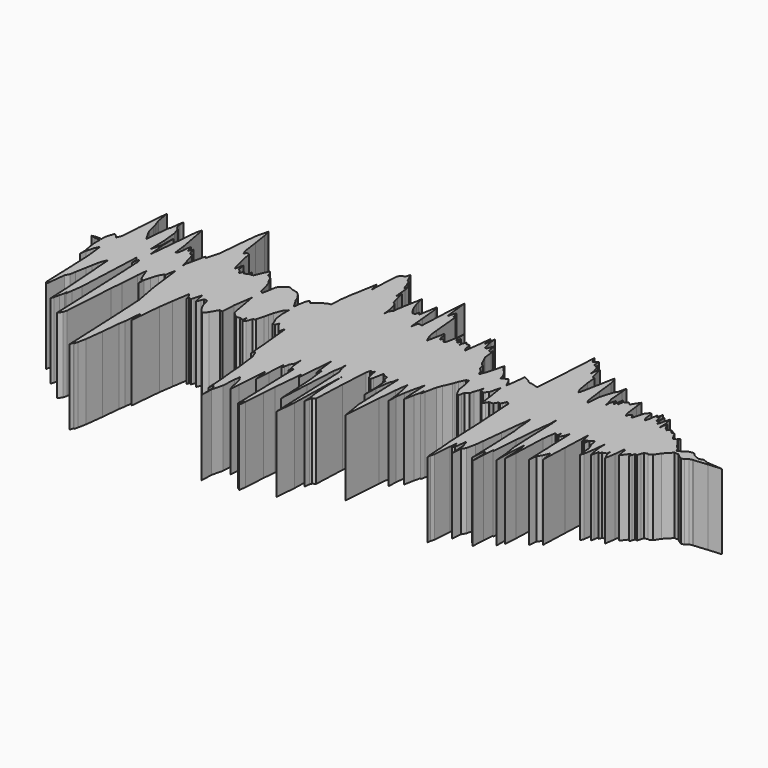
from build123d import *

# Parameters (mm, degrees)
F1_DEPTH = 25


with BuildPart() as f1:
    # F0 (on Top) → F1 (new body)
    with BuildSketch(Plane.XY):
        Polygon((89.297413, 110.118402), (89.569462, 107.581658), (89.817977, 109.943454), (90.26318, 116.853892), (90.605678, 121.174795), (91.531765, 130.849716), (92.058616, 129.36266), (92.664159, 137.235311), (93.005102, 142.046376), (93.819464, 135.084611), (94.012692, 134.261198), (94.429073, 136.09815), (95.15573, 130.018706), (95.85547, 117.203779), (96.291242, 127.426535), (96.868706, 137.777611), (97.305119, 140.23857), (97.356561, 142.571211), (97.574007, 140.531083), (98.397304, 138.151903), (99.003155, 124.195289), (99.527998, 110.779129), (100.09651, 117.503642), (100.383927, 130.324873), (100.627667, 136.622994), (100.690146, 130.587295), (101.102529, 124.551595), (101.507394, 122.1898), (101.562365, 119.828005), (101.80232, 121.577483), (102.097245, 122.364748), (102.990034, 122.889591), (103.421194, 133.386459), (103.946208, 142.396271), (104.286468, 143.533432), (104.601485, 143.795854), (104.916502, 143.533432), (105.476224, 144.145749), (106.064135, 141.609006), (106.258252, 140.734267), (107.117726, 140.209424), (107.380148, 141.318719), (108.012958, 144.759357), (108.474921, 144.087431), (108.800223, 143.970802), (109.125526, 143.883328), (109.958612, 143.70838), (110.20687, 142.396271), (110.44674, 141.259111), (110.923934, 142.046376), (111.325904, 137.235311), (111.402307, 132.424247), (111.511009, 137.060363), (112.134397, 141.69648), (112.683962, 142.833641), (112.998979, 144.845541), (113.313996, 136.389727), (113.696592, 126.942546), (114.273834, 123.589382), (114.755778, 120.352848), (115.6666, 133.211512), (116.196535, 139.247211), (116.503291, 141.783954), (116.847831, 143.795854), (117.19237, 141.988057), (117.542129, 140.588474), (118.193819, 136.972889), (118.501113, 133.473933), (118.549215, 136.53552), (118.947205, 139.597106), (119.2971, 141.527042), (120.43198, 146.245123), (120.758068, 139.859528), (121.02049, 136.76956), (121.658896, 140.210201), (122.158052, 142.337953), (122.219839, 144.320697), (122.446161, 141.871428), (122.734269, 143.399295), (123.495847, 147.193429), (124.195639, 148.927091), (125.378621, 151.593528), (125.595221, 152.280822), (125.988315, 153.315752), (126.647872, 154.831968), (126.954569, 155.254935), (127.719188, 155.60483), (128.369792, 152.805666), (128.728427, 150.093975), (129.292215, 148.86934), (129.978706, 147.644705), (130.611935, 147.207336), (130.856623, 148.344497), (131.084849, 149.30671), (132.243238, 150.093975), (132.548414, 151.493557), (133.141784, 152.980613), (133.429978, 154.46767), (133.557524, 153.155561), (134.615369, 152.630718), (135.018732, 152.980613), (135.742202, 153.655563), (136.711582, 157.431651), (137.486299, 152.480765), (138.103972, 147.778406), (138.828912, 148.520649), (139.292917, 149.374152), (139.834973, 149.346299), (140.327825, 149.346299), (140.635368, 149.481657), (140.990619, 150.093975), (141.365108, 150.706292), (141.69041, 150.618818), (142.015713, 150.531344), (142.390202, 151.143661), (142.745453, 151.930927), (143.007875, 152.342776), (143.8204, 151.763257), (144.616498, 138.842644), (145.198199, 126.009497), (145.580658, 121.635802), (145.889158, 116.329049), (146.156261, 115.279362), (146.197657, 116.416523), (146.588949, 117.553683), (147.004963, 123.414435), (147.28874, 126.126126), (147.572518, 123.560227), (148.076005, 124.288742), (148.631806, 128.341697), (149.42951, 126.038652), (149.738009, 120.877692), (150.046509, 124.289174), (150.812298, 125.513808), (151.462902, 128.487921), (151.765918, 131.199612), (152.494616, 137.935102), (153.265873, 144.787222), (153.630666, 146.886595), (153.674455, 148.86934), (153.954627, 147.29481), (154.260735, 143.183536), (154.636565, 140.646793), (155.027857, 131.986877), (155.336356, 122.277274), (155.644855, 126.738443), (156.456962, 126.563495), (156.527881, 120.877692), (156.735922, 125.251387), (157.014898, 129.012764), (157.375711, 128.400447), (158.007727, 137.212721), (158.76752, 146.164214), (159.240255, 149.510812), (159.295302, 152.718192), (159.546687, 150.268922), (159.841535, 140.734267), (160.187587, 133.648881), (160.831135, 129.36266), (161.172113, 125.076439), (161.228338, 130.587295), (161.634477, 136.09815), (162.028041, 134.786046), (162.315458, 127.175817), (162.621685, 131.462038), (163.03406, 142.04638), (163.442778, 145.282914), (163.7052, 146.447312), (164.833186, 145.778598), (164.882834, 147.469758), (165.133433, 146.070175), (165.43368, 145.495295), (166.008172, 146.118589), (166.533016, 147.305791), (166.882911, 148.694392), (167.267625, 139.159741), (167.582651, 130.499825), (167.897677, 133.211516), (168.731412, 134.436151), (169.15168, 135.31089), (169.726753, 136.797946), (170.066807, 135.31089), (170.381833, 132.949094), (170.696859, 141.60901), (171.06577, 151.143666), (171.892808, 147.119866), (172.068234, 147.907131), (172.87267, 148.606923), (172.914237, 146.769971), (173.249251, 148.606923), (174.265555, 149.306714), (174.58058, 149.044292), (174.895606, 147.382288), (175.748442, 145.282914), (176.000203, 142.921119), (176.238057, 140.996693), (176.665842, 142.04638), (177.274862, 146.245127), (177.618675, 150.268927), (177.674167, 147.382288), (178.061273, 144.495649), (178.521399, 142.658697), (178.767061, 143.62091), (179.029978, 145.457862), (179.502405, 144.495649), (179.863936, 145.457862), (180.13601, 145.571275), (181.277903, 145.95355), (181.327176, 147.469762), (181.548013, 145.654281), (182.477304, 143.528315), (182.992665, 146.998112), (183.318523, 150.356401), (183.6779, 150.443875), (184.080229, 148.257027), (184.279198, 147.040512), (186.318023, 149.744083), (186.535888, 148.431975), (186.826961, 149.21924), (187.118034, 150.181453), (187.876648, 150.073328), (188.226543, 151.318614), (188.576439, 152.176567), (189.666719, 152.444793), (189.861588, 152.251035), (191.025708, 152.857168), (192.269136, 154.794732), (194.615111, 157.237299), (196.044472, 157.121042), (196.866214, 156.416296), (198.02362, 155.703286), (198.898359, 156.0422), (199.773098, 156.741991), (200.752806, 157.021908), (201.172681, 157.021908), (205.546376, 157.441782), (209.920071, 157.791678), (204.965118, 158.150949), (203.313758, 158.729366), (202.932768, 158.762638), (201.784964, 158.38029), (200.472855, 158.834437), (199.68559, 159.29328), (199.073273, 160.055022), (198.345856, 160.153478), (198.141744, 160.153478), (196.798934, 159.891056), (196.075566, 159.191265), (195.568952, 158.753895), (195.224421, 158.841369), (194.87989, 158.753895), (194.52463, 158.141578), (194.174734, 158.841369), (193.912313, 159.499725), (192.775152, 160.436546), (192.425256, 161.115688), (192.075361, 161.657318), (191.550517, 162.213791), (191.025674, 163.10463), (191.025674, 164.196873), (190.325883, 163.390008), (189.626091, 162.986575), (189.157406, 163.390008), (187.876613, 165.680795), (186.904081, 165.401907), (186.50071, 166.451594), (185.399718, 166.248032), (185.195607, 165.751803), (184.523441, 166.189173), (184.027762, 166.888964), (183.677866, 167.588755), (183.269148, 168.550968), (182.978075, 167.413807), (182.745825, 165.314434), (182.687002, 168.201072), (182.103336, 171.087711), (181.578492, 168.988337), (181.053649, 166.888964), (180.469983, 168.900863), (180.41116, 170.912763), (180.17891, 168.81339), (179.887837, 168.026124), (179.479119, 169.338233), (179.076671, 170.650342), (179.024118, 171.96245), (178.779328, 170.38792), (178.481985, 169.775602), (178.079536, 170.737815), (177.698085, 168.026124), (177.338195, 166.451594), (176.669959, 167.588755), (176.302449, 170.650342), (175.803626, 170.650342), (174.833708, 169.425707), (174.631818, 168.81339), (173.669195, 165.489381), (172.965491, 166.888964), (172.070199, 166.101699), (171.876031, 165.38355), (171.237369, 166.658221), (170.682063, 171.312696), (170.389077, 173.767752), (168.929664, 171.535571), (168.667242, 171.000237), (167.811911, 171.796388), (166.462592, 171.000237), (166.272917, 169.075811), (165.818497, 171.787502), (165.418595, 169.250759), (165.225366, 168.550968), (164.590292, 170.38792), (164.042572, 168.550968), (164.001415, 166.714016), (163.71, 168.457721), (163.051366, 170.323831), (162.612938, 175.403089), (162.423844, 177.473306), (161.795279, 174.586667), (161.284581, 173.886876), (161.022143, 173.228519), (159.879617, 169.425707), (159.535086, 165.139486), (159.190555, 165.372748), (158.789098, 166.262889), (158.048338, 171.802902), (157.394744, 177.327516), (157.085817, 178.781816), (156.416573, 179.944471), (155.12729, 173.099611), (154.595442, 170.38792), (154.246418, 168.550968), (153.945675, 168.062568), (153.217181, 169.700357), (152.524087, 173.775186), (152.243129, 176.948462), (151.487487, 177.184191), (150.395174, 181.584579), (149.996587, 179.572679), (149.870331, 177.56078), (149.804162, 179.561698), (149.233548, 181.369036), (148.596834, 182.867073), (148.401504, 182.196897), (147.591003, 182.72174), (147.394256, 184.840461), (146.772712, 184.253835), (146.152177, 183.797118), (145.732747, 184.471218), (145.194184, 185.783326), (144.489592, 173.709), (143.789801, 163.63852), (141.690436, 164.305556), (140.522583, 164.352221), (140.31848, 164.549161), (139.678536, 165.121188), (137.78875, 166.101699), (137.487349, 163.292716), (136.996317, 159.27905), (135.877744, 161.728004), (135.042411, 162.620237), (134.622536, 162.270342), (133.637473, 161.902951), (133.292933, 161.64053), (132.948393, 162.952638), (132.593142, 163.739903), (132.243246, 164.264747), (131.868356, 164.78959), (130.493768, 166.339127), (130.143873, 166.888964), (129.752572, 167.676229), (129.135573, 165.052012), (128.744282, 163.739903), (128.394386, 162.368938), (127.482214, 159.891052), (126.954219, 161.028212), (126.757351, 161.572449), (125.589865, 162.64018), (125.245325, 164.439694), (124.900786, 164.527168), (124.168013, 165.22696), (123.964952, 165.929875), (122.75466, 168.351027), (122.446161, 171.262659), (122.179058, 172.312346), (122.137661, 171.350133), (121.2375, 171.874976), (120.8261, 174.674141), (119.955495, 172.39982), (119.338497, 172.574767), (118.947205, 174.236771), (118.54028, 176.073723), (118.483251, 177.910675), (118.247422, 175.98625), (118.011593, 174.061824), (117.954555, 175.752985), (117.460157, 177.298836), (116.925532, 172.385874), (116.313215, 167.815871), (115.763274, 169.113246), (115.448257, 171.087711), (115.13324, 171.175185), (114.39857, 171.087711), (113.873727, 171.787502), (113.290069, 170.475394), (113.231246, 169.163285), (113.093783, 170.479048), (112.452806, 171.291306), (111.896748, 170.150491), (111.599405, 171.087711), (111.354615, 172.662241), (111.30208, 170.825289), (110.502061, 172.049924), (110.454377, 175.11151), (110.170839, 172.169592), (109.57119, 169.020531), (109.05529, 168.288546), (108.827884, 168.539987), (108.275414, 169.114869), (107.709174, 169.388272), (107.400675, 168.81339), (107.092176, 169.425707), (106.723051, 171.087711), (106.254203, 172.224872), (106.057088, 170.869026), (105.10405, 166.189173), (104.408265, 167.763703), (103.861989, 169.338233), (103.529801, 172.224872), (102.709323, 181.144118), (102.138565, 180.874655), (101.751698, 182.28437), (101.549218, 183.071636), (101.099547, 181.934475), (100.65994, 180.272471), (100.462782, 181.759527), (99.692952, 188.582491), (99.201552, 180.972262), (98.779148, 172.032026), (97.565764, 172.339696), (97.303342, 171.700028), (96.958606, 169.688129), (96.440665, 175.349018), (95.892578, 181.210907), (95.413257, 182.460455), (95.206736, 181.015999), (94.410784, 176.336145), (94.104625, 176.860989), (93.754729, 177.385832), (93.404834, 175.98625), (92.536698, 175.947177), (91.680001, 177.143763), (90.817366, 178.757367), (90.243729, 180.534892), (89.900522, 181.847001), (89.555982, 183.683953), (89.211451, 181.709484), (88.681252, 179.008774), (88.097594, 175.559857), (87.901521, 173.62445), (87.061327, 172.924659), (87.015933, 170.912759), (86.712269, 173.536698), (86.057872, 176.277549), (85.707139, 177.032336), (85.007348, 177.487213), (84.26616, 180.056714), (83.649162, 182.72174), (83.25787, 180.534892), (82.846187, 184.996061), (82.558079, 187.007961), (82.26997, 185.345957), (81.858287, 186.133222), (81.483798, 187.445331), (81.158496, 188.057648), (80.833194, 189.019861), (80.012024, 189.544704), (79.809544, 190.157022), (78.714574, 192.431343), (78.364679, 190.944287), (77.547327, 190.594391), (77.130972, 190.419443), (76.569038, 189.632178), (76.203954, 184.121322), (76.022027, 179.835101), (75.239511, 182.634266), (74.160576, 176.424117), (73.790614, 174.521664), (73.214901, 170.498104), (73.009149, 166.597861), (71.835384, 166.377662), (70.661619, 165.65514), (69.78688, 164.933275), (68.912141, 164.226816), (68.23559, 163.739905), (67.413275, 164.702118), (67.215088, 164.527171), (66.812768, 163.39001), (66.462872, 161.465584), (66.20045, 159.546516), (64.363499, 162.685471), (64.013603, 163.739905), (63.663707, 164.264749), (63.313812, 164.789592), (62.963916, 165.339428), (61.767399, 166.448483), (61.360231, 166.45159), (59.785701, 166.888959), (58.393093, 167.501277), (58.040942, 167.289759), (57.206297, 166.659588), (56.461598, 166.083839), (55.837036, 165.068274), (55.241004, 161.569318), (54.972915, 160.503365), (54.168953, 161.028208), (53.807949, 162.672164), (52.835946, 165.870027), (52.302325, 166.492478), (51.739447, 167.588751), (51.392763, 168.376016), (51.067461, 168.46349), (50.742159, 168.725911), (49.899608, 169.250755), (49.695505, 170.314071), (49.014528, 171.18881), (48.12393, 169.250755), (47.568505, 167.938646), (47.020576, 166.714012), (45.772967, 166.626538), (45.726906, 167.763698), (45.510545, 166.566876), (44.358948, 165.879174), (43.807127, 166.803237), (43.309368, 165.256113), (43.019862, 165.839271), (42.730357, 166.451588), (41.970175, 167.043256), (41.62028, 169.513174), (41.270384, 168.134241), (40.920489, 166.539062), (40.56674, 167.501275), (39.682921, 170.859378), (38.714429, 175.433994), (37.771428, 175.490559), (37.421533, 174.586663), (37.071637, 175.432245), (36.760319, 176.394457), (36.09685, 181.222574), (35.358481, 186.062796), (34.919841, 187.824381), (34.74217, 188.40754), (33.776335, 184.499258), (33.10719, 177.968022), (32.52806, 171.147713), (32.131706, 169.571495), (31.263355, 166.461245), (30.698732, 167.238859), (30.255263, 165.052012), (29.682725, 162.340321), (29.330143, 160.853265), (29.286347, 159.366208), (29.040247, 160.883009), (28.431588, 162.632487), (27.77235, 164.964538), (27.352949, 165.926751), (26.574773, 165.98561), (25.837547, 168.288546), (25.525086, 167.588755), (25.175191, 166.888964), (24.825295, 167.938651), (24.475399, 168.988337), (24.125504, 167.812537), (23.905717, 165.033219), (23.205926, 163.909706), (22.725921, 168.076065), (20.883022, 178.198861), (20.34979, 176.380343), (19.363408, 165.380193), (18.767266, 159.285464), (18.163002, 164.643084), (17.97378, 169.863076), (17.90058, 165.22696), (16.996381, 161.684267), (16.777696, 167.632492), (16.252853, 172.487293), (15.693132, 174.149298), (15.378114, 174.936563), (15.063095, 174.849089), (14.678322, 175.636354), (14.288189, 177.12341), (14.247951, 178.610467), (13.958458, 177.210884), (13.6488, 174.499193), (13.27874, 173.187085), (12.923487, 169.425707), (12.65183, 165.245428), (10.829471, 168.321234), (10.304627, 169.561597), (9.716716, 171.885957), (9.522597, 172.749715), (8.652877, 175.295078), (7.87566, 179.797088), (6.983262, 168.900863), (6.630723, 162.690216), (6.280828, 162.011072), (5.930932, 161.115684), (5.581037, 161.444931), (5.085351, 161.990423), (4.413183, 162.427793), (4.209078, 161.902949), (3.831559, 160.940736), (3.481663, 159.493596), (3.481663, 158.046454), (1.907133, 158.262269), (0.332603, 157.959933), (1.907133, 157.441782), (3.481663, 157.441782), (3.481663, 154.992513), (3.831559, 152.543244), (4.229328, 150.356396), (4.277203, 148.169549), (4.532578, 150.428319), (5.184495, 152.819274), (5.581037, 153.601439), (5.930932, 154.46767), (6.280828, 151.689156), (6.630723, 148.694392), (7.022017, 138.984789), (7.330515, 130.324873), (7.597614, 131.37456), (7.639012, 130.412347), (7.981568, 129.450134), (8.727056, 136.185624), (9.483715, 137.585207), (9.775007, 139.402622), (10.42097, 143.018207), (10.829471, 145.028997), (11.179366, 147.119862), (11.529262, 148.1902), (11.879158, 149.044288), (12.275803, 149.831553), (12.898191, 141.783954), (13.27874, 136.448046), (13.663513, 130.587295), (13.978531, 123.851804), (14.293549, 124.814017), (14.678322, 126.650969), (15.074279, 128.138025), (15.120339, 129.625082), (15.378114, 128.400447), (15.681948, 130.558139), (16.151356, 134.081578), (17.100078, 155.60483), (17.879935, 154.730091), (17.932486, 152.718192), (18.177278, 154.292722), (18.474621, 155.079987), (18.87707, 154.292722), (19.22783, 147.557231), (20.367669, 118.547119), (21.326339, 119.819496), (21.655867, 121.110958), (22.725921, 137.886441), (23.075817, 142.046376), (23.471478, 148.082071), (23.834508, 151.334626), (24.838963, 148.704519), (25.228651, 147.644701), (25.430078, 147.382279), (26.316204, 146.682488), (26.442454, 144.670588), (26.508615, 146.894873), (27.071794, 148.928432), (27.812693, 151.340268), (28.709025, 152.805666), (29.024042, 152.543244), (29.339059, 154.730091), (29.723834, 156.0422), (30.076217, 153.330509), (30.95653, 145.895227), (32.173103, 139.232919), (32.468818, 137.847628), (32.994277, 128.662869), (33.975108, 106.706919), (34.318545, 107.84408), (34.364606, 108.981241), (34.622381, 107.756606), (34.926216, 109.068715), (35.445701, 111.605458), (36.167931, 117.641157), (36.744191, 123.79349), (37.1023, 125.892863), (37.405443, 129.625086), (37.677932, 131.374564), (37.724684, 129.362664), (38.069711, 127.350764), (39.03731, 137.760159), (39.69945, 142.396276), (40.56756, 148.082079), (41.325359, 147.032392), (41.620288, 145.720284), (41.915214, 146.507549), (42.669975, 146.224476), (43.019871, 147.119866), (43.369766, 148.5401), (43.719662, 149.744083), (44.069558, 147.819657), (44.594401, 145.895232), (45.143838, 147.382288), (45.46914, 148.169553), (45.794442, 148.257027), (46.518827, 148.169553), (46.868722, 147.294814), (47.218618, 145.857795), (47.743462, 144.622183), (48.273661, 143.697407), (49.747741, 141.942569), (50.904169, 143.397651), (52.425951, 146.079204), (53.408678, 145.86336), (53.644755, 150.515413), (54.569296, 156.741991), (55.4804, 151.744481), (56.017647, 148.344497), (56.3159, 147.315461), (58.007349, 145.730501), (59.115064, 145.910886), (59.46496, 146.070175), (59.814856, 145.174785), (60.573461, 145.982701), (60.632284, 147.469758), (60.771162, 146.130343), (60.910043, 144.790925), (61.587082, 145.571561), (62.264125, 147.348345), (62.98851, 147.907127), (63.639114, 150.356396), (64.013603, 151.843453), (64.363499, 153.421165), (65.413185, 156.097277), (66.462872, 157.195677), (66.462872, 154.344617), (66.812768, 151.493557), (67.162676, 150.598167), (67.512572, 149.919027), (67.862467, 148.715043), (68.750003, 148.606918), (69.234424, 149.831553), (69.588364, 149.044288), (70.156624, 148.257023), (71.871638, 146.245123), (72.06121, 147.29481), (72.365037, 148.344497), (73.343908, 138.809841), (73.864189, 132.249299), (74.207336, 133.561407), (74.485442, 133.215104), (75.400902, 131.056963), (76.202587, 124.75525), (76.639957, 118.953266), (77.005476, 115.891679), (77.298796, 110.205876), (77.602964, 111.86788), (78.434564, 110.993141), (78.509805, 105.83218), (78.620617, 109.943454), (79.51772, 113.44241), (79.790273, 117.903579), (80.019431, 119.915479), (80.856276, 118.690844), (81.187489, 117.585879), (81.808033, 114.435683), (82.299125, 113.178852), (82.507738, 116.503996), (83.309722, 126.650969), (83.642635, 124.639069), (83.957652, 121.752431), (84.27267, 126.738443), (84.638275, 132.599194), (85.10005, 130.93719), (85.341816, 131.724455), (85.604169, 133.386459), (86.462182, 134.786042), (86.517443, 136.972889), (86.865186, 133.911303), (87.509716, 130.849716), (87.806504, 131.745106), (88.1564, 132.424247), (88.506295, 120.157253), (88.83873, 108.106502), align=None)
    extrude(amount=F1_DEPTH)


solid = f1.part
